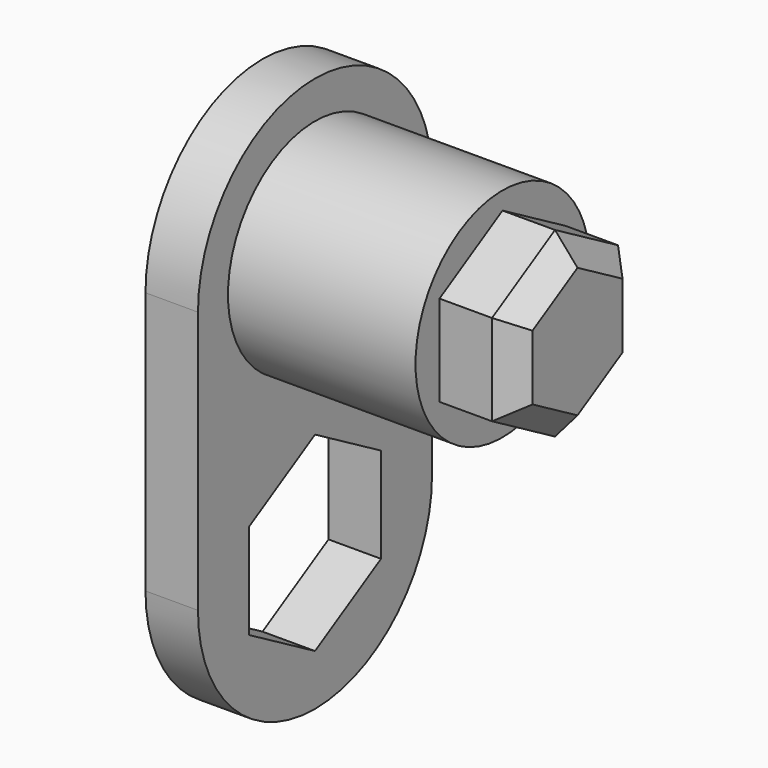
from build123d import *

# Parameters (mm, degrees)
F0_W     = 3.9
F0_H     = 3.5
F1_DEPTH = 0.7
F2_R     = 1.45
F3_DEPTH = 3.2
F5_DEPTH = 1
F6_SIZE  = 0.3
F8_DEPTH = 0.7


with BuildPart() as f1:
    # F0 (on Right) → F1 (new body)
    with BuildSketch(Plane.YZ):
        Rectangle(F0_W, F0_H)
        with BuildLine():
            Line((-1.95, 1.75), (1.95, 1.75))
            ThreePointArc((1.95, 1.75), (0, 3.7), (-1.95, 1.75))
        make_face()
        with BuildLine():
            ThreePointArc((-1.95, -1.75), (0, -3.7), (1.95, -1.75))
            Line((1.95, -1.75), (-1.95, -1.75))
        make_face()
    extrude(amount=F1_DEPTH)

    # F2 (on Right) → F3 (join)
    with BuildSketch(Plane.YZ):
        with Locations((0, 1.75)):
            Circle(F2_R)
    extrude(amount=F3_DEPTH)

    # F4 (on face) → F5 (join)
    with BuildSketch(Plane.YZ.offset(3.2)):
        Polygon((1.05, 1.143782), (1.05, 2.356218), (0, 2.962436), (-1.05, 2.356218), (-1.05, 1.143782), (0, 0.537564), align=None)
    extrude(amount=F5_DEPTH)

    # F6
    f6_edges = [f1.edges().sort_by_distance(p)[0] for p in [
        (4.2, -0.525, 2.659327),
        (4.2, 0.525, 2.659327),
        (4.2, 1.05, 1.75),
        (4.2, 0.525, 0.840673),
        (4.2, -0.525, 0.840673),
        (4.2, -1.05, 1.75),
    ]]
    chamfer(f6_edges, length=F6_SIZE)

    # F7 (on face) → F8 (cut, through all)
    with BuildSketch(Plane(origin=(0, 0, 0), x_dir=(0, -1, 0), z_dir=(-1, 0, 0))):
        Polygon((1.1, -2.385085), (1.1, -1.114915), (0, -0.479829), (-1.1, -1.114915), (-1.1, -2.385085), (0, -3.020171), align=None)
    extrude(amount=-F8_DEPTH, mode=Mode.SUBTRACT)


solid = f1.part
